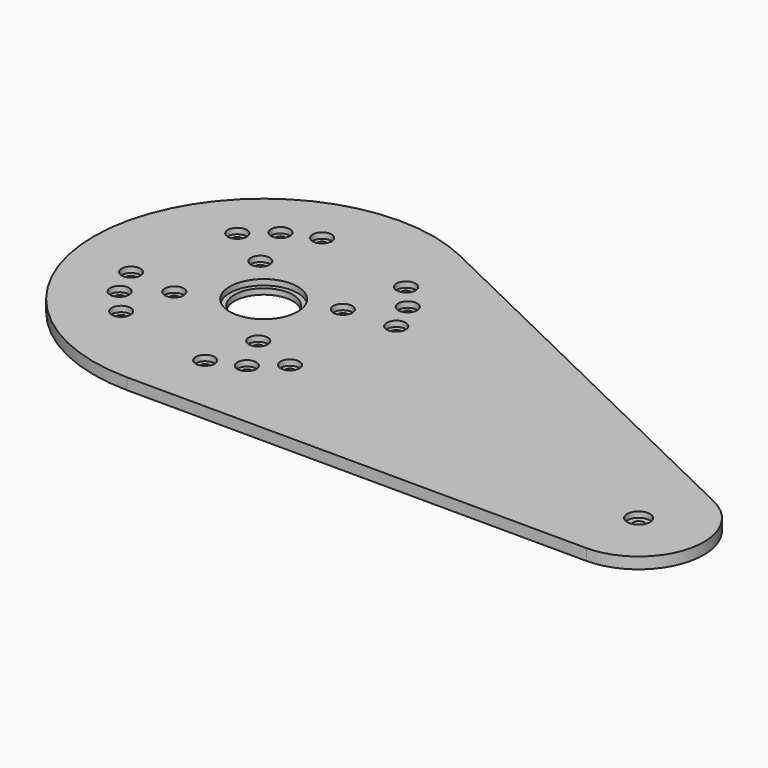
from build123d import *

# Parameters (mm, degrees)
SKETCH_R              = 3
SKETCH_R_2            = 15.5
PAD_DEPTH             = 6
SKETCH001_R           = 2.5
POCKET_DEPTH          = 10
POLARPATTERN_COUNT    = 4
SKETCH002_R           = 5
POCKET001_DEPTH       = 3
POLARPATTERN001_COUNT = 4
SKETCH003_R           = 6
POCKET002_DEPTH       = 3
SKETCH004_R           = 18
POCKET003_DEPTH       = 3
SKETCH010_R           = 2.5
POCKET007_DEPTH       = 6
SKETCH011_R           = 5
POCKET008_DEPTH       = 3
POLARPATTERN004_COUNT = 4
SKETCH012_R           = 2.5
POCKET009_DEPTH       = 6
SKETCH013_R           = 5
POCKET010_DEPTH       = 3
CLONE_PLACEMENT_ANGLE = 13


with BuildPart() as part:
    # Sketch → Pad (new body)
    with BuildSketch(Plane.XY):
        with BuildLine():
            ThreePointArc((19.98, 87.7542), (-90, 0), (19.98, -87.7542))
            Line((19.98, -87.7542), (257.659, -33.63911))
            ThreePointArc((257.659, -33.63911), (284.5, 0), (257.659, 33.63911))
            Line((19.98, 87.7542), (257.659, 33.63911))
        make_face()
        with Locations((250, 0)):
            Circle(SKETCH_R, mode=Mode.SUBTRACT)
        Circle(SKETCH_R_2, mode=Mode.SUBTRACT)
    extrude(amount=PAD_DEPTH)

    # Sketch001 (on Face8 of Pad) → Pocket (cut)
    with BuildSketch(Plane.XY.offset(6)):
        with Locations((42.4248, 42.428014)):
            Circle(SKETCH001_R)
    pocket = extrude(amount=-POCKET_DEPTH, mode=Mode.SUBTRACT)

    # PolarPattern: Pocket ×4 about axis
    polarpattern_axis = Axis((0, 0, 6), (0, 0, 1))
    for i in range(1, POLARPATTERN_COUNT):
        add(pocket.rotate(polarpattern_axis, i * 360 / POLARPATTERN_COUNT), mode=Mode.SUBTRACT)

    # Sketch002 (on Face5 of PolarPattern) → Pocket001 (cut)
    with BuildSketch(Plane.XY.offset(6)):
        with Locations((-42.428014, 42.4248)):
            Circle(SKETCH002_R)
    pocket001 = extrude(amount=-POCKET001_DEPTH, mode=Mode.SUBTRACT)

    # PolarPattern001: Pocket001 ×4 about axis
    polarpattern001_axis = Axis((0, 0, 6), (0, 0, 1))
    for i in range(1, POLARPATTERN001_COUNT):
        add(pocket001.rotate(polarpattern001_axis, i * 360 / POLARPATTERN001_COUNT), mode=Mode.SUBTRACT)

    # Sketch003 (on Face5 of PolarPattern001) → Pocket002 (cut)
    with BuildSketch(Plane.XY.offset(6)):
        with Locations((250, 0)):
            Circle(SKETCH003_R)
    extrude(amount=-POCKET002_DEPTH, mode=Mode.SUBTRACT)

    # Sketch004 (on Face5 of Pocket002) → Pocket003 (cut)
    with BuildSketch(Plane.XY.offset(6)):
        Circle(SKETCH004_R)
    extrude(amount=-POCKET003_DEPTH, mode=Mode.SUBTRACT)

    # Sketch010 (on Face5 of Pocket003) → Pocket007 (cut)
    with BuildSketch(Plane.XY.offset(6)):
        with Locations((53, 28)):
            Circle(SKETCH010_R)
        with Locations((53, -28)):
            Circle(SKETCH010_R)
    pocket007 = extrude(amount=-POCKET007_DEPTH, mode=Mode.SUBTRACT)

    # Sketch011 (on Face5 of Pocket007) → Pocket008 (cut)
    with BuildSketch(Plane.XY.offset(6)):
        with Locations((53, 28)):
            Circle(SKETCH011_R)
        with Locations((53, -28)):
            Circle(SKETCH011_R)
    pocket008 = extrude(amount=-POCKET008_DEPTH, mode=Mode.SUBTRACT)

    # PolarPattern004: Pocket007, Pocket008 ×4 about axis
    polarpattern004_axis = Axis((0, 0, 6), (0, 0, 1))
    for i in range(1, POLARPATTERN004_COUNT):
        add(pocket007.rotate(polarpattern004_axis, i * 360 / POLARPATTERN004_COUNT), mode=Mode.SUBTRACT)
        add(pocket008.rotate(polarpattern004_axis, i * 360 / POLARPATTERN004_COUNT), mode=Mode.SUBTRACT)

    # Sketch012 (on Face5 of PolarPattern004) → Pocket009 (cut)
    with BuildSketch(Plane.XY.offset(6)):
        with Locations((28, -25)):
            Circle(SKETCH012_R)
        with Locations((27.5, 20)):
            Circle(SKETCH012_R)
    pocket009 = extrude(amount=-POCKET009_DEPTH, mode=Mode.SUBTRACT)

    # Sketch013 (on Face5 of Pocket009) → Pocket010 (cut)
    with BuildSketch(Plane.XY.offset(6)):
        with Locations((27.5, 20)):
            Circle(SKETCH013_R)
        with Locations((28, -25)):
            Circle(SKETCH013_R)
    pocket010 = extrude(amount=-POCKET010_DEPTH, mode=Mode.SUBTRACT)

    # Mirrored: Pocket010, Pocket009 across Sketch013 V_Axis
    add(pocket010.mirror(Plane(origin=(0, 0, 6), x_dir=(0, 0, 1), z_dir=(1, 0, 0))), mode=Mode.SUBTRACT)
    add(pocket009.mirror(Plane(origin=(0, 0, 6), x_dir=(0, 0, 1), z_dir=(1, 0, 0))), mode=Mode.SUBTRACT)


with BuildPart() as part_1:
    # Clone placement: moved
    add(part.part.moved(Location((105, 104.973082, -6))).rotate(Axis((105, 104.973082, -6), (0, 0, -1)), CLONE_PLACEMENT_ANGLE))


solid = part_1.part
